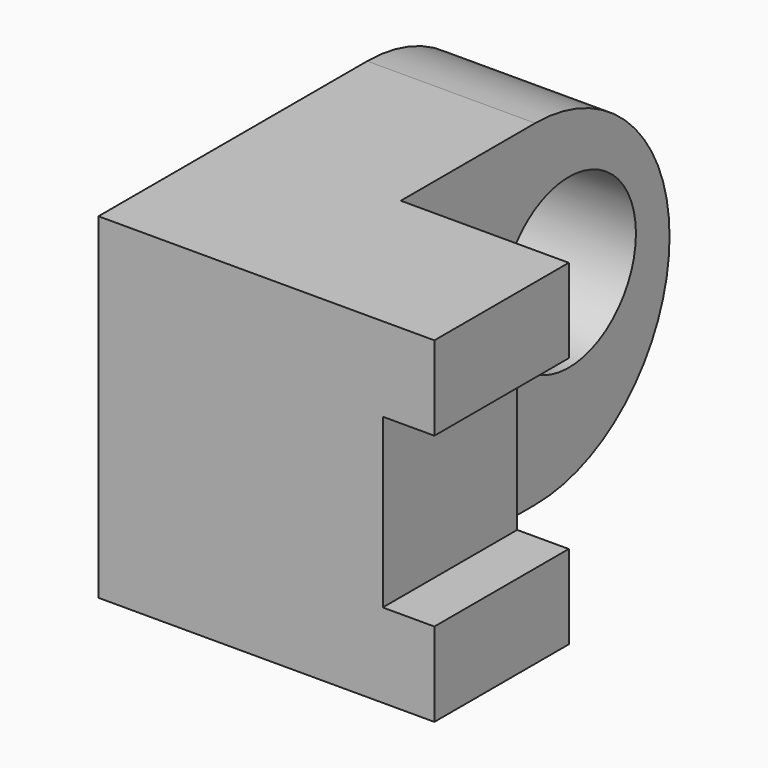
from build123d import *

# Parameters (mm, degrees)
F2_DEPTH = 25.4
F1_W     = 25.4
F1_H     = 50.8
F1_R     = 12.7
F3_DEPTH = 25.4


with BuildPart() as f2:
    # F0 (on Front) → F2 (new body)
    with BuildSketch(Plane.XZ):
        Polygon((0, 50.8), (0, 0), (50.8, 0), (50.8, 12.7), (42.995947, 12.7), (42.995947, 38.1), (50.8, 38.1), (50.8, 50.8), align=None)
    extrude(amount=-F2_DEPTH)

    # F1 (on Right) → F3 (join)
    with BuildSketch(Plane.YZ):
        with Locations((12.7, 25.4)):
            Rectangle(F1_W, F1_H)
        with BuildLine():
            Line((25.4, 50.8), (25.4, 0))
            Line((25.4, 0), (50.8, 0))
            ThreePointArc((50.8, 0), (68.760512, 7.439488), (76.2, 25.4))
            ThreePointArc((76.2, 25.4), (68.760512, 43.360512), (50.8, 50.8))
            Line((50.8, 50.8), (25.4, 50.8))
        make_face()
        with Locations((57.15, 28.366325)):
            Circle(F1_R, mode=Mode.SUBTRACT)
    extrude(amount=F3_DEPTH)


solid = f2.part
